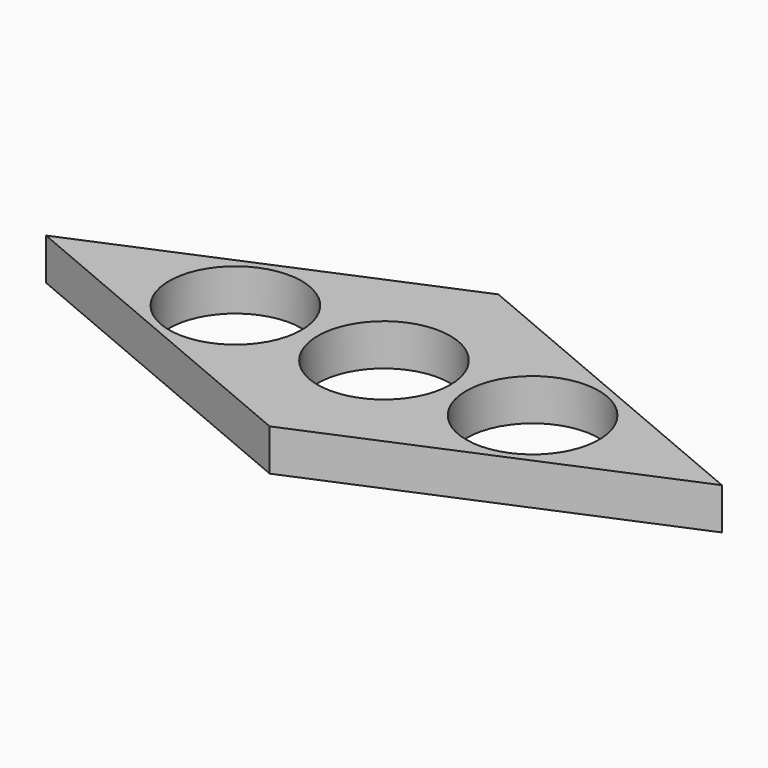
from build123d import *

# Parameters (mm, degrees)
F0_R     = 11.15
F1_DEPTH = 7


with BuildPart() as f1:
    # F0 (on Top) → F1 (new body)
    with BuildSketch(Plane.XY):
        Polygon((0, 24.043523), (-56.841541, 0), (0, -24.043523), (56.841541, 0), align=None)
        with Locations((-25, 0)):
            Circle(F0_R, mode=Mode.SUBTRACT)
        with BuildLine():
            ThreePointArc((-11.15, 0), (0, 11.15), (11.15, 0))
            ThreePointArc((11.15, 0), (0, -11.15), (-11.15, 0))
        make_face(mode=Mode.SUBTRACT)
        with BuildLine():
            ThreePointArc((36.15, 0), (25, -11.15), (13.85, 0))
            ThreePointArc((13.85, 0), (25, 11.15), (36.15, 0))
        make_face(mode=Mode.SUBTRACT)
    extrude(amount=F1_DEPTH)


solid = f1.part
